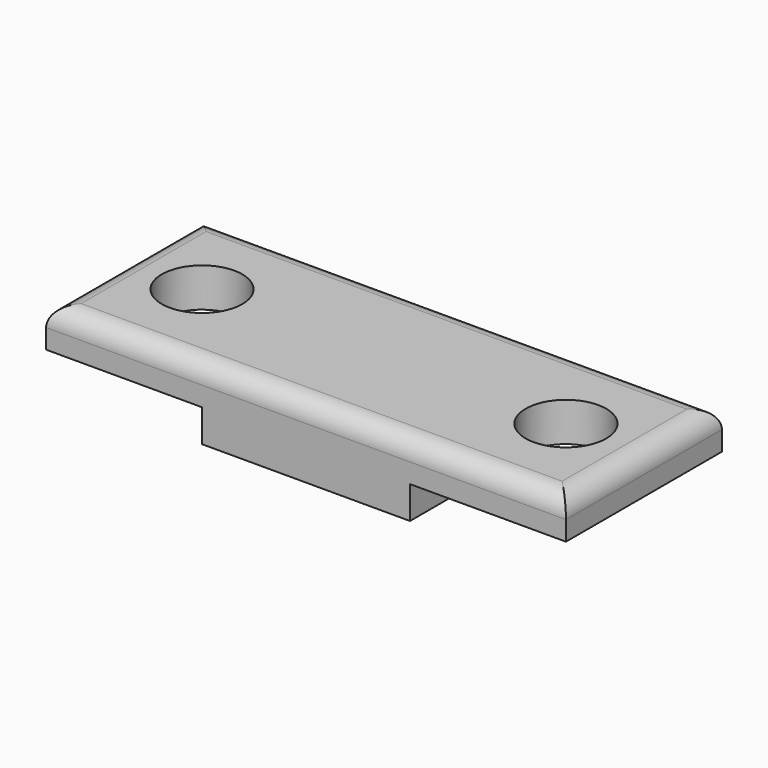
from build123d import *

# Parameters (mm, degrees)
SKETCH003_W  = 16
SKETCH003_H  = 15
PAD_DEPTH    = 2.5
SKETCH_W     = 40
SKETCH_H     = 15
SKETCH_R     = 3.1
PAD001_DEPTH = 3
FILLET_R     = 1.5


with BuildPart() as part:
    # Sketch003 → Pad (new body)
    with BuildSketch(Plane.XY.offset(12)):
        with Locations((8, -7.5)):
            Rectangle(SKETCH003_W, SKETCH003_H)
    extrude(amount=PAD_DEPTH)

    # Sketch → Pad001 (new body)
    with BuildSketch(Plane.XY.offset(14.5)):
        with Locations((8, -7.5)):
            Rectangle(SKETCH_W, SKETCH_H)
        with Locations((-6, -7.5)):
            Circle(SKETCH_R, mode=Mode.SUBTRACT)
        with Locations((22, -7.5)):
            Circle(SKETCH_R, mode=Mode.SUBTRACT)
    extrude(amount=PAD001_DEPTH)

    # Fillet
    fillet_edges = [part.edges().sort_by_distance(p)[0] for p in [
        (8, 0, 17.5),
        (8, -15, 17.5),
        (-12, -7.5, 17.5),
        (28, -7.5, 17.5),
    ]]
    fillet(fillet_edges, radius=FILLET_R)


solid = part.part
